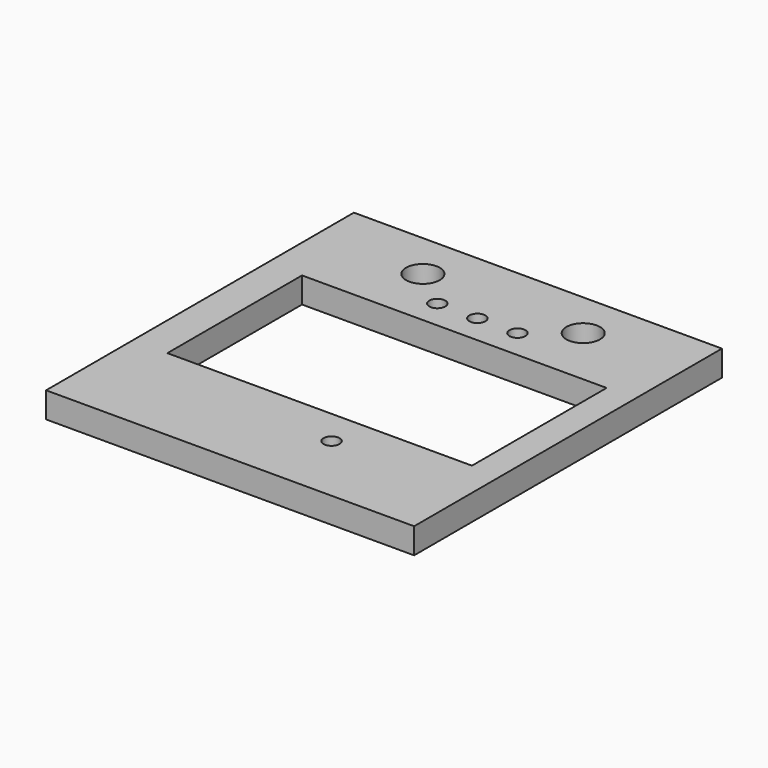
from build123d import *

# Parameters (mm, degrees)
F0_W     = 22.956962
F0_H     = 24
F0_R     = 0.5
F0_R_2   = 1.05
F1_DEPTH = 1.6
F2_W     = 19
F2_H     = 10.5
F3_DEPTH = 25


with BuildPart() as f1:
    # F0 (on Top) → F1 (new body)
    with BuildSketch(Plane.XY):
        with Locations((-0.186301, 0)):
            Rectangle(F0_W, F0_H)
        with Locations((2.54, -7.5)):
            Circle(F0_R, mode=Mode.SUBTRACT)
        with Locations((-2.5, 7.05)):
            Circle(F0_R, mode=Mode.SUBTRACT)
        with Locations((-5, 9.05)):
            Circle(F0_R_2, mode=Mode.SUBTRACT)
        with Locations((0, 7.05)):
            Circle(F0_R, mode=Mode.SUBTRACT)
        with Locations((2.5, 7.05)):
            Circle(F0_R, mode=Mode.SUBTRACT)
        with Locations((5, 9.05)):
            Circle(F0_R_2, mode=Mode.SUBTRACT)
    extrude(amount=-F1_DEPTH)

    # F2 (on face) → F3 (cut)
    with BuildSketch(Plane.XY):
        Rectangle(F2_W, F2_H)
    extrude(amount=-F3_DEPTH, mode=Mode.SUBTRACT)


solid = f1.part
